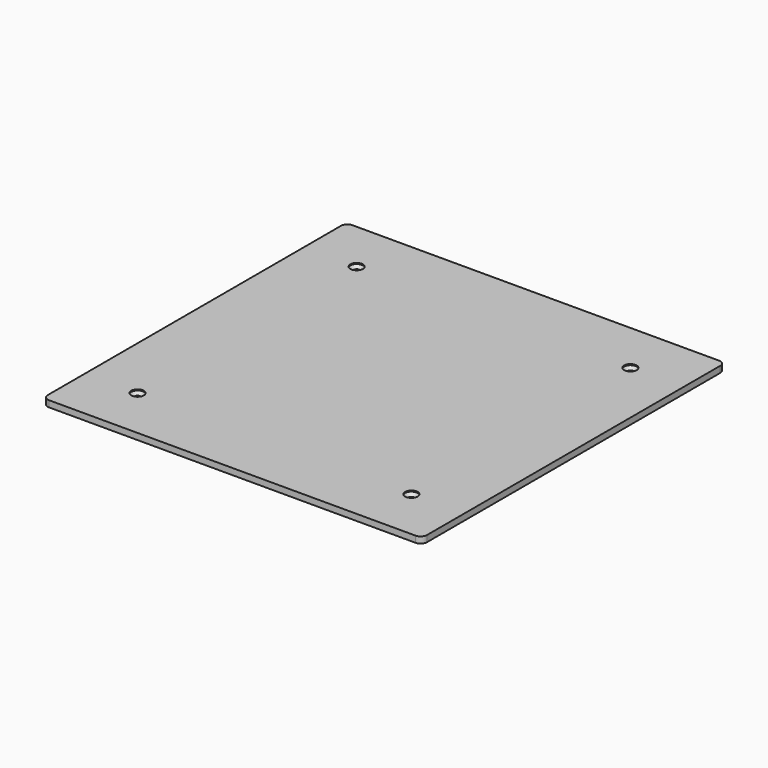
from build123d import *

# Parameters (mm, degrees)
PAD062_DEPTH          = 3
POLARPATTERN003_COUNT = 4


with BuildPart() as part:
    # Sketch257 → Pad062 (new body)
    with BuildSketch(Plane.XY):
        with BuildLine():
            Line((-90, 87), (-90, -87))
            ThreePointArc((-90, -87), (-89.12132, -89.12132), (-87, -90))
            Line((-87, -90), (87, -90))
            ThreePointArc((87, -90), (89.12132, -89.12132), (90, -87))
            Line((90, -87), (90, 87))
            ThreePointArc((90, 87), (89.12132, 89.12132), (87, 90))
            Line((87, 90), (-87, 90))
            ThreePointArc((-87, 90), (-89.12132, 89.12132), (-90, 87))
        make_face()
    extrude(amount=PAD062_DEPTH)

    # Sketch258 → Groove (revolve, cut)
    with BuildSketch(Plane(origin=(65, -65, 0), x_dir=(1, 0, 0), z_dir=(0, -1, 0))):
        Polygon((0, 3), (3, 3), (3, 2.5), (1.6, 1.1), (1.6, 0), (0, 0), align=None)
    groove = revolve(axis=Axis((65, -65, 0), (0, 0, 1)), mode=Mode.SUBTRACT)

    # PolarPattern003: Groove ×4 about axis
    polarpattern003_axis = Axis((0, 0, 0), (0, 0, 1))
    for i in range(1, POLARPATTERN003_COUNT):
        add(groove.rotate(polarpattern003_axis, i * 360 / POLARPATTERN003_COUNT), mode=Mode.SUBTRACT)


with BuildPart() as part_1:
    # Body127 placement: moved
    add(part.part.moved(Location((0, 0, 14))))


solid = part_1.part
